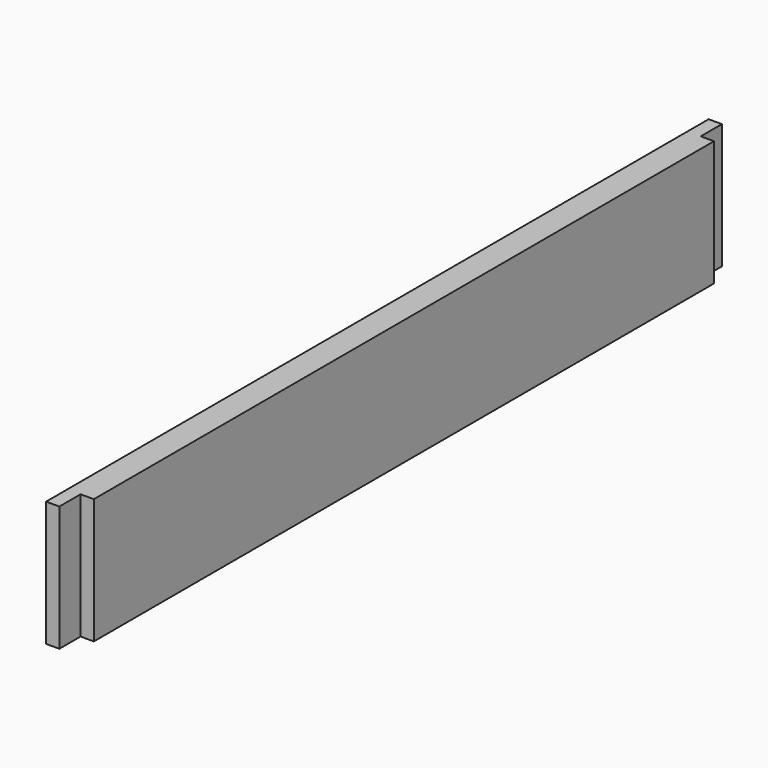
from build123d import *

# Parameters (mm, degrees)
F0_W     = 526
F0_H     = 85
F1_DEPTH = 18
F0_W_2   = 18
F2_DEPTH = 9


with BuildPart() as f1:
    # F0 (on Right) → F1 (new body)
    with BuildSketch(Plane.YZ):
        with Locations((281, 42.5)):
            Rectangle(F0_W, F0_H)
    extrude(amount=F1_DEPTH)

    # F0 (on Right) → F2 (join)
    with BuildSketch(Plane.YZ):
        with Locations((9, 42.5)):
            Rectangle(F0_W_2, F0_H)
        with Locations((553, 42.5)):
            Rectangle(F0_W_2, F0_H)
    extrude(amount=F2_DEPTH)


solid = f1.part
